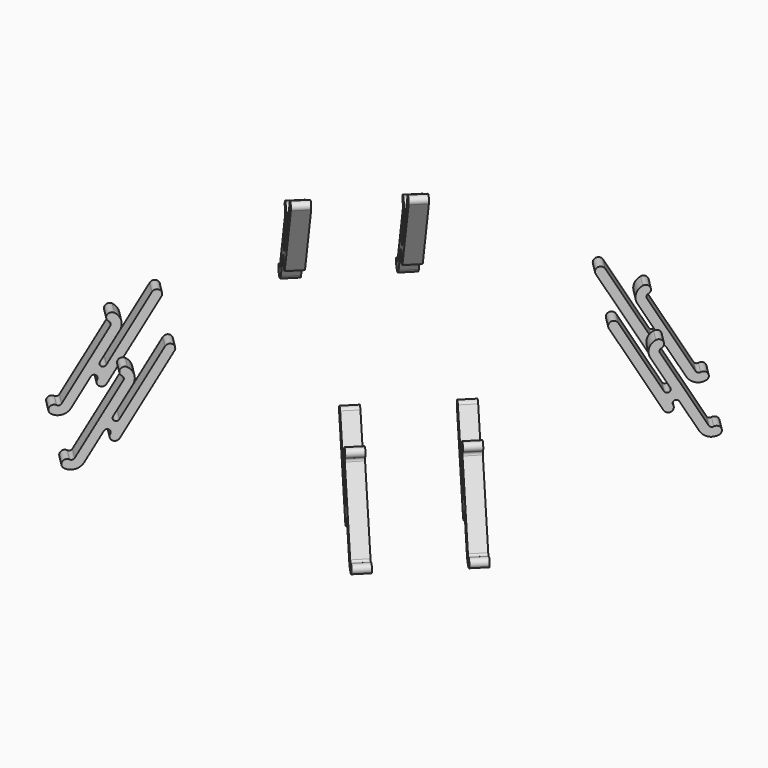
from build123d import *

# Parameters (mm, degrees)
PAD028_DEPTH          = 17
POCKET010_DEPTH       = 12
POLARPATTERN005_COUNT = 4


with BuildPart() as part:
    # Sketch056 → Pad028 (new body, symmetric)
    with BuildSketch(Plane(origin=(0, 0, 0), x_dir=(0.707107, 0.707107, 0), z_dir=(0.707107, -0.707107, 0))):
        with BuildLine():
            Line((66.985194, 13.842305), (53.485194, 37.224991))
            ThreePointArc((55.823463, 38.574991), (53.979329, 39.069125), (53.485194, 37.224991))
            Line((55.823463, 38.574991), (67.073463, 19.089419))
            ThreePointArc((67.073463, 19.089419), (68.302886, 18.759996), (68.632309, 19.989419))
            Line((68.632309, 19.989419), (63.757309, 28.433167))
            ThreePointArc((65.075, 33.350858), (63.397667, 31.164915), (63.757309, 28.433167))
            ThreePointArc((66.425, 31.01259), (66.919134, 32.856724), (65.075, 33.350858))
            ThreePointArc((66.425, 31.01259), (66.005667, 30.466104), (66.095577, 29.783167))
            Line((66.095577, 29.783167), (78.095577, 8.998557))
            ThreePointArc((78.095577, 8.998557), (78.642063, 8.579224), (79.325, 8.669134))
            ThreePointArc((80.675, 6.330866), (81.169134, 8.175), (79.325, 8.669134))
            ThreePointArc((75.757309, 7.648557), (77.943251, 5.971224), (80.675, 6.330866))
            Line((75.757309, 7.648557), (70.882309, 16.092305))
            ThreePointArc((70.882309, 16.092305), (69.652886, 16.421728), (69.323463, 15.192305))
            ThreePointArc((66.985194, 13.842305), (68.829329, 13.348171), (69.323463, 15.192305))
        make_face()
    pad028 = extrude(amount=PAD028_DEPTH, both=True)

    # Sketch056 → Pocket010 (cut, symmetric)
    with BuildSketch(Plane(origin=(0, 0, 0), x_dir=(0.707107, 0.707107, 0), z_dir=(0.707107, -0.707107, 0))):
        with BuildLine():
            Line((66.985194, 13.842305), (53.485194, 37.224991))
            ThreePointArc((55.823463, 38.574991), (53.979329, 39.069125), (53.485194, 37.224991))
            Line((55.823463, 38.574991), (67.073463, 19.089419))
            ThreePointArc((67.073463, 19.089419), (68.302886, 18.759996), (68.632309, 19.989419))
            Line((68.632309, 19.989419), (63.757309, 28.433167))
            ThreePointArc((65.075, 33.350858), (63.397667, 31.164915), (63.757309, 28.433167))
            ThreePointArc((66.425, 31.01259), (66.919134, 32.856724), (65.075, 33.350858))
            ThreePointArc((66.425, 31.01259), (66.005667, 30.466104), (66.095577, 29.783167))
            Line((66.095577, 29.783167), (78.095577, 8.998557))
            ThreePointArc((78.095577, 8.998557), (78.642063, 8.579224), (79.325, 8.669134))
            ThreePointArc((80.675, 6.330866), (81.169134, 8.175), (79.325, 8.669134))
            ThreePointArc((75.757309, 7.648557), (77.943251, 5.971224), (80.675, 6.330866))
            Line((75.757309, 7.648557), (70.882309, 16.092305))
            ThreePointArc((70.882309, 16.092305), (69.652886, 16.421728), (69.323463, 15.192305))
            ThreePointArc((66.985194, 13.842305), (68.829329, 13.348171), (69.323463, 15.192305))
        make_face()
    pocket010 = extrude(amount=POCKET010_DEPTH, both=True, mode=Mode.SUBTRACT)

    # PolarPattern005: Pad028, Pocket010 ×4 about axis
    polarpattern005_axis = Axis((0, 0, 0), (0, 0, 1))
    for i in range(1, POLARPATTERN005_COUNT):
        add(pad028.rotate(polarpattern005_axis, i * 360 / POLARPATTERN005_COUNT))
        add(pocket010.rotate(polarpattern005_axis, i * 360 / POLARPATTERN005_COUNT), mode=Mode.SUBTRACT)


solid = part.part
